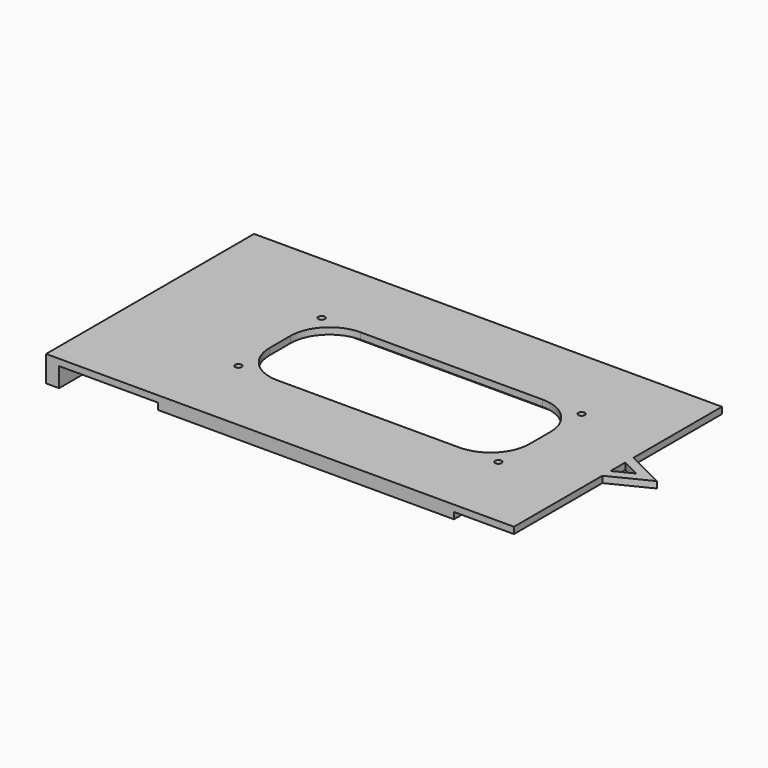
from build123d import *

# Parameters (mm, degrees)
F0_W     = 144.560187006
F0_H     = 69.128523463
F0_W_2   = 135.035187006
F0_H_2   = 59.603523463
F0_R     = 1.5875
F0_H_3   = 28.9357382685
F0_W_3   = 6.35
F0_H_4   = 127
F1_DEPTH = 3.175
F2_DEPTH = 3.175
F3_DEPTH = 9.525


with BuildPart() as f1:
    # F0 (on Top) → F1 (new body)
    with BuildSketch(Plane.XY):
        Rectangle(F0_W, F0_H)
        Rectangle(F0_W_2, F0_H_2, mode=Mode.SUBTRACT)
        Rectangle(F0_W_2, F0_H_2)
        with Locations((-63.5, -25.4)):
            Circle(F0_R, mode=Mode.SUBTRACT)
        with Locations((63.5, -25.4)):
            Circle(F0_R, mode=Mode.SUBTRACT)
        with Locations((-63.5, 25.4)):
            Circle(F0_R, mode=Mode.SUBTRACT)
        with BuildLine():
            ThreePointArc((63.5, -6.35), (57.9203841816, -19.8203841816), (44.45, -25.4))
            Line((44.45, -25.4), (-44.45, -25.4))
            ThreePointArc((-44.45, -25.4), (-57.9203841816, -19.8203841816), (-63.5, -6.35))
            Line((-63.5, -6.35), (-63.5, 6.35))
            ThreePointArc((-63.5, 6.35), (-57.9203841816, 19.8203841816), (-44.45, 25.4))
            Line((-44.45, 25.4), (44.45, 25.4))
            ThreePointArc((44.45, 25.4), (57.9203841816, 19.8203841816), (63.5, 6.35))
            Line((63.5, 6.35), (63.5, -6.35))
        make_face(mode=Mode.SUBTRACT)
        with Locations((63.5, 25.4)):
            Circle(F0_R, mode=Mode.SUBTRACT)
        Polygon((-120.65, -63.5), (-72.280093503, -63.5), (-72.280093503, -34.5642617315), (-72.280093503, 34.5642617315), (-72.280093503, 63.5), (-120.65, 63.5), align=None)
        with Locations((0, -49.0321308658)):
            Rectangle(F0_W, F0_H_3)
        with Locations((0, 49.0321308658)):
            Rectangle(F0_W, F0_H_3)
        Polygon((72.280093503, -63.5), (101.6, -63.5), (101.6, -9.525), (120.65, 0), (101.6, 9.525), (101.6, 63.5), (72.280093503, 63.5), (72.280093503, 34.5642617315), (72.280093503, -34.5642617315), align=None)
        Polygon((110.612402501, 0), (101.6, -4.5062012505), (101.6, 4.5062012505), align=None, mode=Mode.SUBTRACT)
        with Locations((-123.825, 0)):
            Rectangle(F0_W_3, F0_H_4)
        with Locations((-123.825, 0)):
            Rectangle(F0_W_3, F0_H_4)
    extrude(amount=F1_DEPTH)

    # F0 (on Top) → F2 (join)
    with BuildSketch(Plane.XY):
        with Locations((0, -49.0321308658)):
            Rectangle(F0_W, F0_H_3)
        Rectangle(F0_W, F0_H)
        Rectangle(F0_W_2, F0_H_2, mode=Mode.SUBTRACT)
        with Locations((0, 49.0321308658)):
            Rectangle(F0_W, F0_H_3)
    extrude(amount=-F2_DEPTH)

    # F0 (on Top) → F3 (join)
    with BuildSketch(Plane.XY):
        with Locations((-123.825, 0)):
            Rectangle(F0_W_3, F0_H_4)
    extrude(amount=-F3_DEPTH)


solid = f1.part
